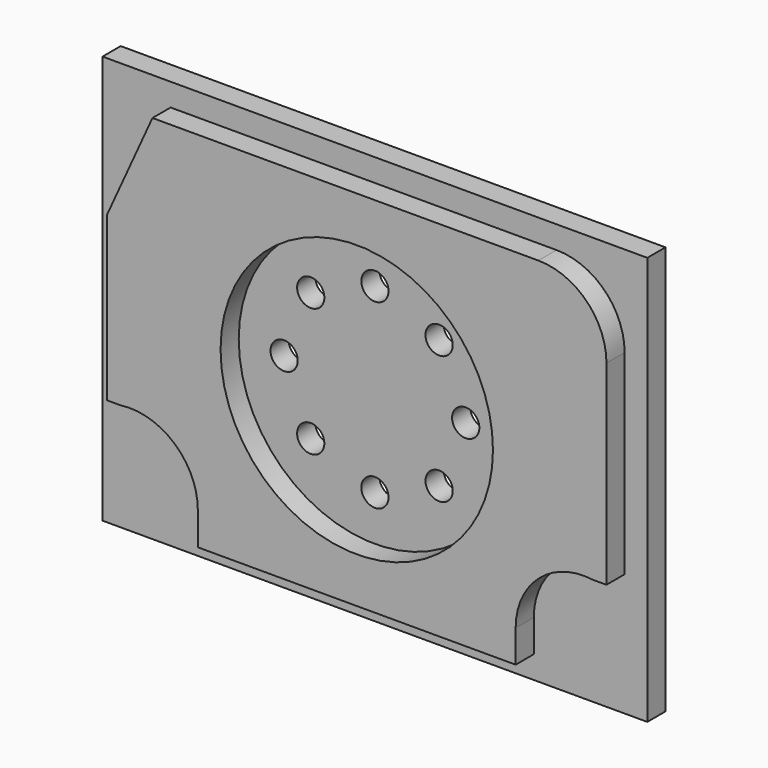
from build123d import *

# Parameters (mm, degrees)
F0_W     = 120
F0_H     = 90
F1_DEPTH = 5
F3_DEPTH = 5
F4_R     = 30
F5_DEPTH = 5
F6_R     = 3
F7_DEPTH = 5


with BuildPart() as f1:
    # F0 (on Front) → F1 (new body)
    with BuildSketch(Plane.XZ):
        Rectangle(F0_W, F0_H)
    extrude(amount=F1_DEPTH)

    # F2 (on face) → F3 (join)
    with BuildSketch(Plane.XZ.offset(5)):
        with BuildLine():
            Line((-45, 40), (-55, 18))
            Line((-55, 18), (-55, -18))
            Line((-55, -18), (-52, -18))
            ThreePointArc((-52, -18), (-40.125791, -21.574479), (-35, -32.866069))
            Line((-35, -32.866069), (-35, -40))
            Line((-35, -40), (35, -40))
            Line((35, -40), (35, -32.866069))
            ThreePointArc((35, -32.866069), (40.125791, -21.574479), (52, -18))
            Line((52, -18), (55, -18))
            Line((55, -18), (55, 25))
            ThreePointArc((55, 25), (50.606602, 35.606602), (40, 40))
            Line((40, 40), (-45, 40))
        make_face()
    extrude(amount=F3_DEPTH)

    # F4 (on face) → F5 (cut)
    with BuildSketch(Plane.XZ.offset(10)):
        Circle(F4_R)
    extrude(amount=-F5_DEPTH, mode=Mode.SUBTRACT)

    # F6 (on face) → F7 (cut)
    with BuildSketch(Plane.XZ.offset(5)):
        with Locations((-14.14, 14.144271)):
            Circle(F6_R)
        with Locations((0, 20)):
            Circle(F6_R)
        with Locations((14.14, 14.144271)):
            Circle(F6_R)
        with Locations((20, 0)):
            Circle(F6_R)
        with Locations((14.144271, -14.14)):
            Circle(F6_R)
        with Locations((0, -20)):
            Circle(F6_R)
        with Locations((-14.144271, -14.14)):
            Circle(F6_R)
        with Locations((-20, 0)):
            Circle(F6_R)
    extrude(amount=-F7_DEPTH, mode=Mode.SUBTRACT)


solid = f1.part
